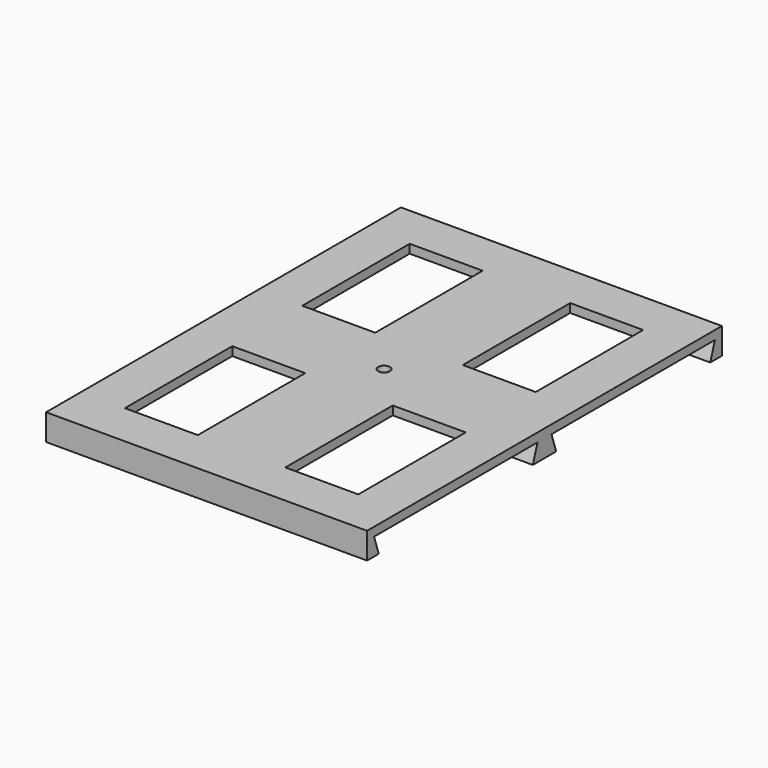
from build123d import *

# Parameters (mm, degrees)
F1_DEPTH = 110
F2_W     = 25
F2_H     = 46
F3_DEPTH = 25


with BuildPart() as f1:
    # F0 (on Right) → F1 (new body)
    with BuildSketch(Plane.YZ):
        Polygon((-5, -9), (0, -9), (5, -9), (3, -3), (73, -3), (71, -9), (73, -9), (76, -9), (76, 0), (3, 0), (0, 0), (-3, 0), (-76, 0), (-76, -9), (-73, -9), (-71, -9), (-73, -3), (-3, -3), align=None)
    extrude(amount=F1_DEPTH)

    # F2 (on face) → F3 (cut)
    with BuildSketch(Plane.XY):
        with Locations((27.5, -38)):
            Rectangle(F2_W, F2_H)
        with Locations((82.5, -38)):
            Rectangle(F2_W, F2_H)
        with Locations((82.5, 38)):
            Rectangle(F2_W, F2_H)
        with Locations((27.5, 38)):
            Rectangle(F2_W, F2_H)
        with BuildLine():
            ThreePointArc((57, 0), (55, 2), (53, 0))
            ThreePointArc((53, 0), (55, -2), (57, 0))
        make_face()
    extrude(amount=-F3_DEPTH, mode=Mode.SUBTRACT)


solid = f1.part
